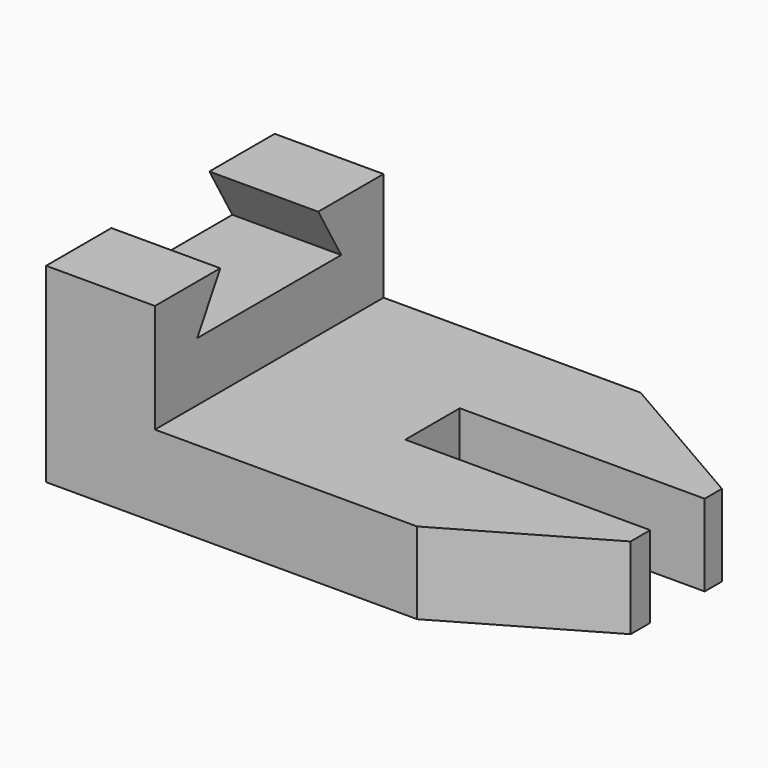
from build123d import *

# Parameters (mm, degrees)
F1_DEPTH = 19.05
F2_W     = 25.4
F2_H     = 66.675
F3_DEPTH = 25.4
F5_DEPTH = 32.258


with BuildPart() as f1:
    # F0 (on Top) → F1 (new body)
    with BuildSketch(Plane.XY):
        Polygon((53.38208, 34.755277), (-31.990739, 34.755277), (-31.990739, -31.919723), (54.581683, -31.919723), (88.659261, -12.245024), (88.659261, -6.519723), (31.509261, -6.519723), (31.509261, 9.355277), (88.659261, 9.355277), (88.659261, 14.387987), align=None)
    extrude(amount=F1_DEPTH)

    # F2 (on face) → F3 (join)
    with BuildSketch(Plane.XY.offset(19.05)):
        with Locations((-19.290739, 1.417777)):
            Rectangle(F2_W, F2_H)
    extrude(amount=F3_DEPTH)

    # F4 (on face) → F5 (cut)
    with BuildSketch(Plane.YZ.offset(-6.590739)):
        Polygon((15.705277, 44.45), (-12.869723, 44.45), (-19.578354, 32.83031), (22.413908, 32.83031), align=None)
    extrude(amount=-F5_DEPTH, mode=Mode.SUBTRACT)


solid = f1.part
